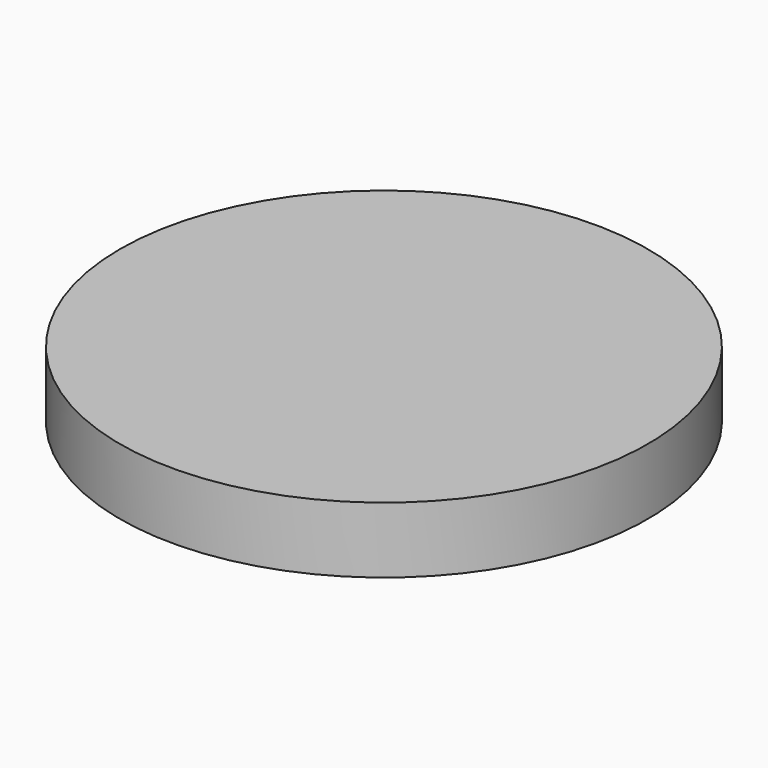
from build123d import *

# Parameters (mm, degrees)
F0_W = 50.8
F0_H = 12.7


with BuildPart() as f1:
    # F0 (on Front) → F1 (revolve)
    with BuildSketch(Plane.XZ):
        Rectangle(F0_W, F0_H)
    revolve(axis=Axis((25.4, 0, 0), (0, 0, -1)))


solid = f1.part
